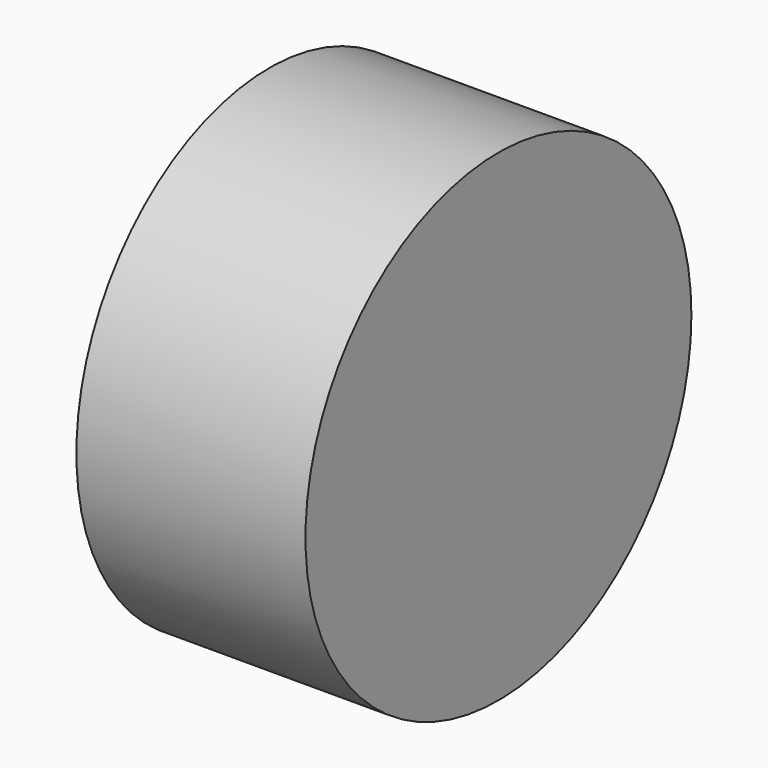
from build123d import *

# Parameters (mm, degrees)
F0_R     = 53.484961
F1_DEPTH = 50.8


with BuildPart() as f1:
    # F0 (on Right) → F1 (new body)
    with BuildSketch(Plane.YZ):
        Circle(F0_R)
        Circle(F0_R)
    extrude(amount=F1_DEPTH)


solid = f1.part
